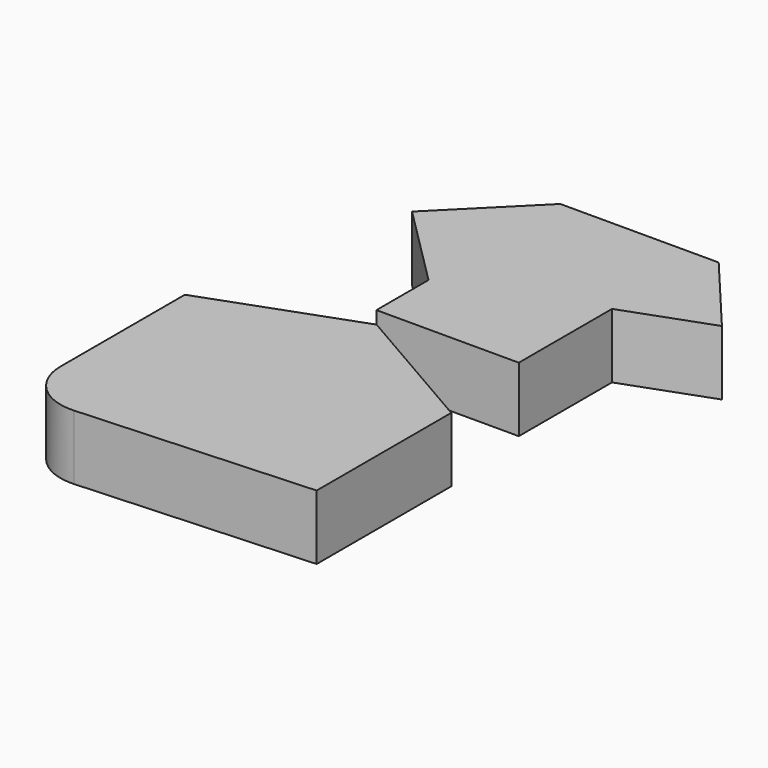
from build123d import *

# Parameters (mm, degrees)
F1_DEPTH = 25


with BuildPart() as f1:
    # F0 (on Top) → F1 (new body)
    with BuildSketch(Plane.XY):
        with BuildLine():
            Line((-51.403165, -35.990703), (-51.403165, -95.990703))
            ThreePointArc((-51.403165, -95.990703), (-45.153345, -110.51422), (-30.30991, -115.9608))
            Line((-30.30991, -115.9608), (59.555528, -111.041155))
            Line((59.555528, -111.041155), (59.555528, -46.041155))
            Line((59.555528, -46.041155), (5.975357, -15.106629))
            Line((5.975357, -15.106629), (-51.403165, -35.990703))
        make_face()
        Polygon((0, 17.41761), (0, -7.73329), (55, -7.73329), (55, 37.26671), (87.889242, 49.237415), (61.189255, 81.057221), (0, 81.057221), (-31.819805, 49.237415), align=None)
    extrude(amount=F1_DEPTH)


solid = f1.part
